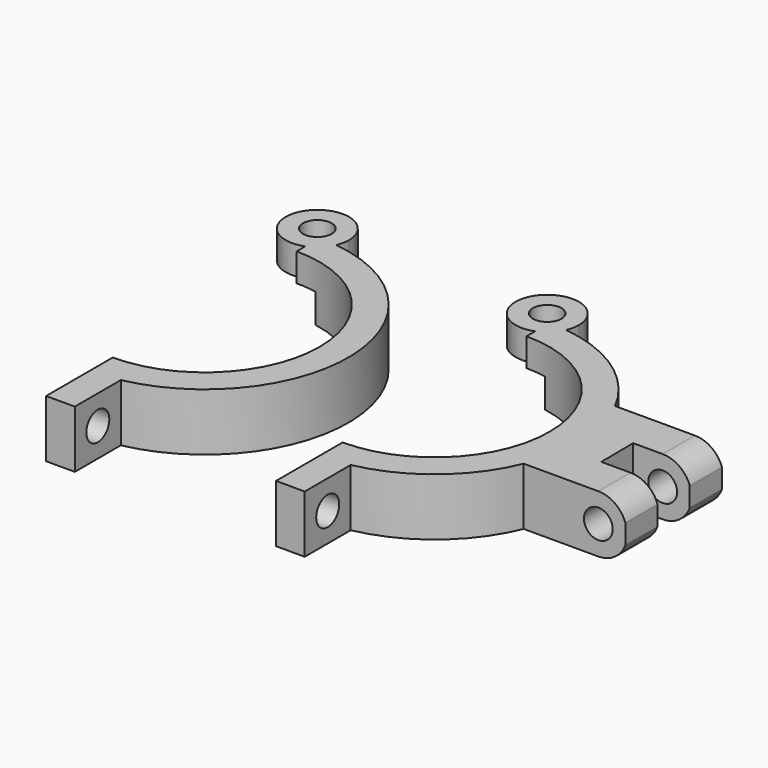
from build123d import *

# Parameters (mm, degrees)
F0_R      = 2.5
F1_DEPTH  = 10
F3_DEPTH  = 5.1
F4_R      = 2.5
F5_DEPTH  = 25
F8_DEPTH  = 10
F9_R      = 2.5
F10_DEPTH = 25
F12_DEPTH = 25


with BuildPart() as f1:
    # F0 (on Top) → F1 (new body)
    with BuildSketch(Plane.XY):
        with BuildLine():
            ThreePointArc((0, 20), (20, 0), (0, -20))
            Line((0, -20), (0, -25))
            Line((0, -25), (0, -34.4948974278))
            Line((0, -34.4948974278), (5, -34.4948974278))
            Line((5, -34.4948974278), (5, -24.4948974278))
            ThreePointArc((5, -24.4948974278), (24.9804087413, 0.9895347988), (3.0467684263, 24.8136495131))
            ThreePointArc((3.0467684263, 24.8136495131), (1.8171863954, 23.0403171815), (0, 21.876524617))
            Line((0, 21.876524617), (0, 20))
        make_face()
        with BuildLine():
            ThreePointArc((3.5, 27), (-6.5414755311, 30.1024184115), (0, 21.876524617))
            Line((0, 21.876524617), (0, 25))
            ThreePointArc((0, 25), (1.526231007, 24.9533688891), (3.0467684263, 24.8136495131))
            ThreePointArc((3.0467684263, 24.8136495131), (3.3855002713, 25.8835830403), (3.5, 27))
        make_face()
        with Locations((-2, 27)):
            Circle(F0_R, mode=Mode.SUBTRACT)
        with BuildLine():
            Line((0, 25), (0, 21.876524617))
            ThreePointArc((0, 21.876524617), (1.8171863954, 23.0403171815), (3.0467684263, 24.8136495131))
            ThreePointArc((3.0467684263, 24.8136495131), (1.526231007, 24.9533688891), (0, 25))
        make_face()
    extrude(amount=F1_DEPTH)

    # F2 (on face) → F3 (cut)
    with BuildSketch(Plane(origin=(0, 0, 0), x_dir=(1, 0, 0), z_dir=(0, 0, -1))):
        with BuildLine():
            ThreePointArc((0, -21.876524617), (-6.5414755311, -30.1024184115), (3.5, -27))
            Line((3.5, -27), (3.5, -15.0508275256))
            Line((3.5, -15.0508275256), (0, -15.0508275256))
            Line((0, -15.0508275256), (0, -21.876524617))
        make_face()
    extrude(amount=-F3_DEPTH, mode=Mode.SUBTRACT)

    # F4 (on face) → F5 (cut)
    with BuildSketch(Plane.YZ.offset(5)):
        with Locations((-29.4948974278, 5)):
            Circle(F4_R)
    extrude(amount=-F5_DEPTH, mode=Mode.SUBTRACT)


with BuildPart() as f6_1:
    # F6: copy of F1
    add(f1.part.moved(Location((40, 0, 0))))

    # F7 (on face) → F8 (join)
    with BuildSketch(Plane.XY.offset(10)):
        Polygon((61.0121913655, -2.5110482576), (61.0760738386, -9.5104652012), (71.0764903249, -9.5104652012), (81.1029541338, -9.5104652012), (81.0126078518, -2.5110482576), (71.0126078518, -2.5110482576), (70.9487227179, 4.4886602141), (80.8852514097, 4.4886602141), (80.8852514097, 11.4886602141), (60.8844184371, 11.4886602141), (60.9483062317, 4.4886602141), align=None)
    extrude(amount=-F8_DEPTH)

    # F9 (on face) → F10 (cut)
    with BuildSketch(Plane.XZ.offset(9.5104652012)):
        with Locations((76.1029541338, 5)):
            Circle(F9_R)
    extrude(amount=-F10_DEPTH, mode=Mode.SUBTRACT)

    # F11 (on face) → F12 (cut)
    with BuildSketch(Plane.XZ.offset(9.5104652012)):
        with BuildLine():
            ThreePointArc((80.8029541338, 6.7058722109), (81.0273830347, 5.8660254038), (81.1029541338, 5))
            Line((81.1029541338, 5), (81.1029541338, 10))
            Line((81.1029541338, 10), (80.8029541338, 10))
            Line((80.8029541338, 10), (80.8029541338, 6.7058722109))
        make_face()
        with BuildLine():
            ThreePointArc((76.1029541338, 10), (78.9726787674, 9.094469505), (80.8029541338, 6.7058722109))
            Line((80.8029541338, 6.7058722109), (80.8029541338, 10))
            Line((80.8029541338, 10), (76.1029541338, 10))
        make_face()
        with BuildLine():
            ThreePointArc((81.1029541338, 5), (81.0273830347, 4.1339745962), (80.8029541338, 3.2941277891))
            Line((80.8029541338, 3.2941277891), (80.8029541338, 0))
            Line((80.8029541338, 0), (80.9755950309, 0))
            Line((80.9755950309, 0), (81.1029541338, 0))
            Line((81.1029541338, 0), (81.1029541338, 5))
        make_face()
        with BuildLine():
            ThreePointArc((80.8029541338, 3.2941277891), (78.9726787674, 0.905530495), (76.1029541338, 0))
            Line((76.1029541338, 0), (80.8029541338, 0))
            Line((80.8029541338, 0), (80.8029541338, 3.2941277891))
        make_face()
        with BuildLine():
            ThreePointArc((81.1029541338, 5), (81.0273830347, 4.1339745962), (80.8029541338, 3.2941277891))
            Line((80.8029541338, 3.2941277891), (80.8029541338, 0))
            Line((80.8029541338, 0), (80.9755950309, 0))
            Line((80.9755950309, 0), (81.1029541338, 0))
            Line((81.1029541338, 0), (81.1029541338, 5))
        make_face()
        with BuildLine():
            ThreePointArc((80.8029541338, 6.7058722109), (81.0273830347, 5.8660254038), (81.1029541338, 5))
            Line((81.1029541338, 5), (81.1029541338, 10))
            Line((81.1029541338, 10), (80.8029541338, 10))
            Line((80.8029541338, 10), (80.8029541338, 6.7058722109))
        make_face()
        with BuildLine():
            Line((80.8029541338, 6.7058722109), (80.8029541338, 3.2941277891))
            ThreePointArc((80.8029541338, 3.2941277891), (81.0273830347, 4.1339745962), (81.1029541338, 5))
            ThreePointArc((81.1029541338, 5), (81.0273830347, 5.8660254038), (80.8029541338, 6.7058722109))
        make_face()
    extrude(amount=-F12_DEPTH, mode=Mode.SUBTRACT)


solid = Compound([f1.part, f6_1.part])
